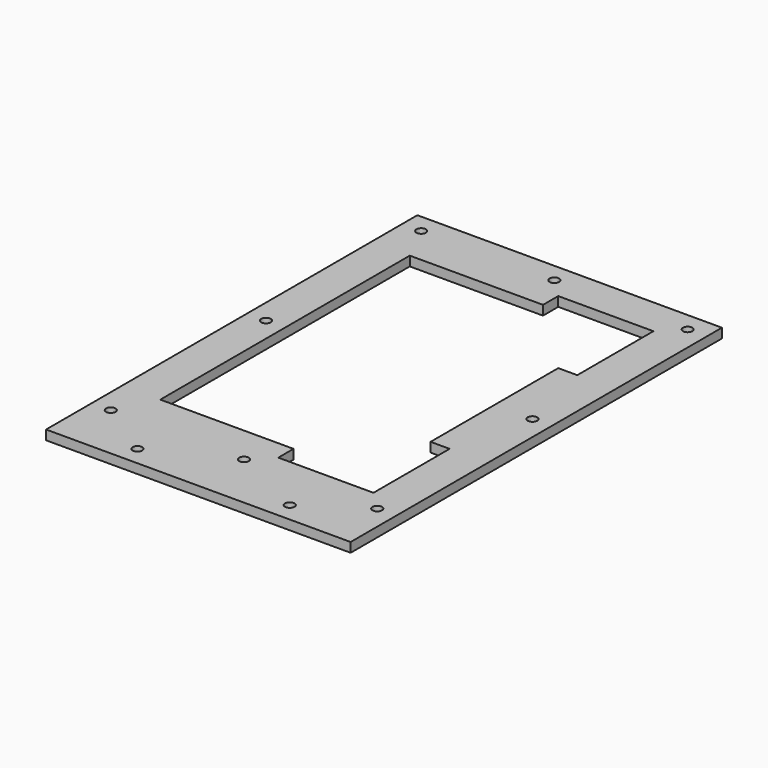
from build123d import *

# Parameters (mm, degrees)
F0_R     = 3.175
F0_W     = 12.7
F0_H     = 106.4768
F0_W_2   = 203.2
F0_H_2   = 25.4
F1_DEPTH = 6.35


with BuildPart() as f1:
    # F0 (on Top) → F1 (new body)
    with BuildSketch(Plane.XY):
        Polygon((76.2, 116.7384), (101.6, 116.7384), (101.6, 142.1384), (-101.6, 142.1384), (-101.6, 116.7384), (12.7, 116.7384), (50.8, 116.7384), align=None)
        with Locations((-88.9, 129.4384)):
            Circle(F0_R, mode=Mode.SUBTRACT)
        with Locations((0, 129.4384)):
            Circle(F0_R, mode=Mode.SUBTRACT)
        with Locations((88.9, 129.4384)):
            Circle(F0_R, mode=Mode.SUBTRACT)
        Polygon((101.6, -116.7384), (76.2, -116.7384), (50.8, -116.7384), (12.7, -116.7384), (-101.6, -116.7384), (-101.6, -142.1384), (101.6, -142.1384), align=None)
        with Locations((-88.9, -129.4384)):
            Circle(F0_R, mode=Mode.SUBTRACT)
        with Locations((0, -129.4384)):
            Circle(F0_R, mode=Mode.SUBTRACT)
        with Locations((88.9, -129.4384)):
            Circle(F0_R, mode=Mode.SUBTRACT)
        Polygon((-76.2, -104.0384), (-76.2, -91.3384), (-76.2, 91.3384), (-76.2, 104.0384), (12.7, 104.0384), (12.7, 116.7384), (-101.6, 116.7384), (-101.6, -116.7384), (12.7, -116.7384), (12.7, -104.0384), align=None)
        with Locations((-88.9, 0)):
            Circle(F0_R, mode=Mode.SUBTRACT)
        Polygon((76.2, -53.2384), (76.2, -91.3384), (76.2, -104.0384), (88.9, -104.0384), (88.9, -53.2384), align=None)
        with Locations((69.85, 0)):
            Rectangle(F0_W, F0_H)
        Polygon((76.2, 91.3384), (76.2, 53.2384), (88.9, 53.2384), (88.9, 104.0384), (76.2, 104.0384), align=None)
        Polygon((76.2, 53.2384), (76.2, -53.2384), (88.9, -53.2384), (88.9, -104.0384), (76.2, -104.0384), (76.2, -116.7384), (101.6, -116.7384), (101.6, 116.7384), (76.2, 116.7384), (76.2, 104.0384), (88.9, 104.0384), (88.9, 53.2384), align=None)
        with Locations((88.9, 0)):
            Circle(F0_R, mode=Mode.SUBTRACT)
        with Locations((0, -154.8384)):
            Rectangle(F0_W_2, F0_H_2)
        with Locations((-50.8, -154.8384)):
            Circle(F0_R, mode=Mode.SUBTRACT)
        with Locations((50.8, -154.8384)):
            Circle(F0_R, mode=Mode.SUBTRACT)
    extrude(amount=F1_DEPTH)


solid = f1.part
